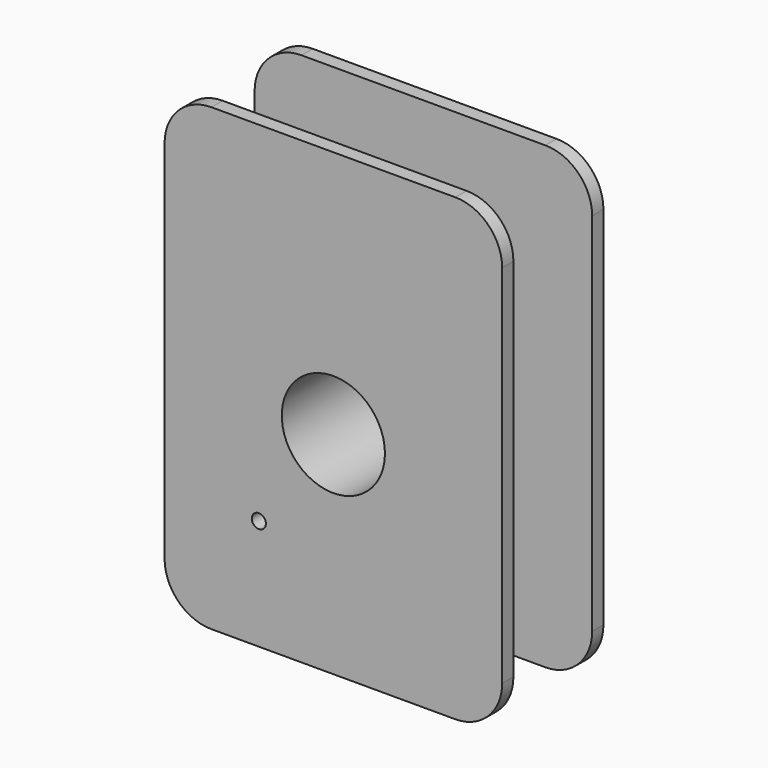
from build123d import *

# Parameters (mm, degrees)
F0_W      = 36
F0_H      = 45
F0_R      = 5.5
F1_DEPTH  = 1.5
F2_W      = 19
F2_H      = 24
F2_R      = 5.5
F3_DEPTH  = 12
F4_W      = 36
F4_H      = 45
F4_W_2    = 19
F4_H_2    = 24
F4_R      = 5.5
F5_DEPTH  = 1.5
F6_R      = 0.75
F7_DEPTH  = 2.5
F8_W      = 36
F8_H      = 4
F9_DEPTH  = 1.5
F10_W     = 36
F10_H     = 4
F11_DEPTH = 1.5
F12_R     = 5
F13_R     = 3


with BuildPart() as f1:
    # F0 (on Front) → F1 (new body)
    with BuildSketch(Plane.XZ):
        Rectangle(F0_W, F0_H)
        Circle(F0_R, mode=Mode.SUBTRACT)
    extrude(amount=F1_DEPTH)

    # F2 (on face) → F3 (join)
    with BuildSketch(Plane.XZ.offset(1.5)):
        Rectangle(F2_W, F2_H)
        Circle(F2_R, mode=Mode.SUBTRACT)
    extrude(amount=F3_DEPTH)

    # F4 (on face) → F5 (join)
    with BuildSketch(Plane.XZ.offset(13.5)):
        Rectangle(F4_W, F4_H)
        Rectangle(F4_W_2, F4_H_2, mode=Mode.SUBTRACT)
        Rectangle(F4_W_2, F4_H_2)
        Circle(F4_R, mode=Mode.SUBTRACT)
    extrude(amount=-F5_DEPTH)

    # F6 (on face) → F7 (cut)
    with BuildSketch(Plane.XZ.offset(13.5)):
        with Locations((-7.9445969313, -10.7102040201)):
            Circle(F6_R)
    extrude(amount=-F7_DEPTH, mode=Mode.SUBTRACT)

    # F8 (on face) → F9 (join)
    with BuildSketch(Plane.XZ.offset(13.5)):
        with Locations((0, 24.5)):
            Rectangle(F8_W, F8_H)
    extrude(amount=-F9_DEPTH)

    # F10 (on face) → F11 (join)
    with BuildSketch(Plane(origin=(0, 0, 0), x_dir=(-1, 0, 0), z_dir=(0, 1, 0))):
        with Locations((0, 24.5)):
            Rectangle(F10_W, F10_H)
    extrude(amount=-F11_DEPTH)

    # F12
    f12_edges = [f1.edges().sort_by_distance(p)[0] for p in [
        (18, -12.75, 26.5),
        (18, -0.75, 26.5),
        (18, -0.75, -22.5),
        (18, -12.75, -22.5),
        (-18, -0.75, -22.5),
        (-18, -12.75, -22.5),
        (-18, -0.75, 26.5),
        (-18, -12.75, 26.5),
    ]]
    fillet(f12_edges, radius=F12_R)

    # F13
    f13_edges = [f1.edges().sort_by_distance(p)[0] for p in [
        (-9.5, -6.75, 12),
        (9.5, -6.75, 12),
        (9.5, -6.75, -12),
        (-9.5, -6.75, -12),
    ]]
    fillet(f13_edges, radius=F13_R)


solid = f1.part
